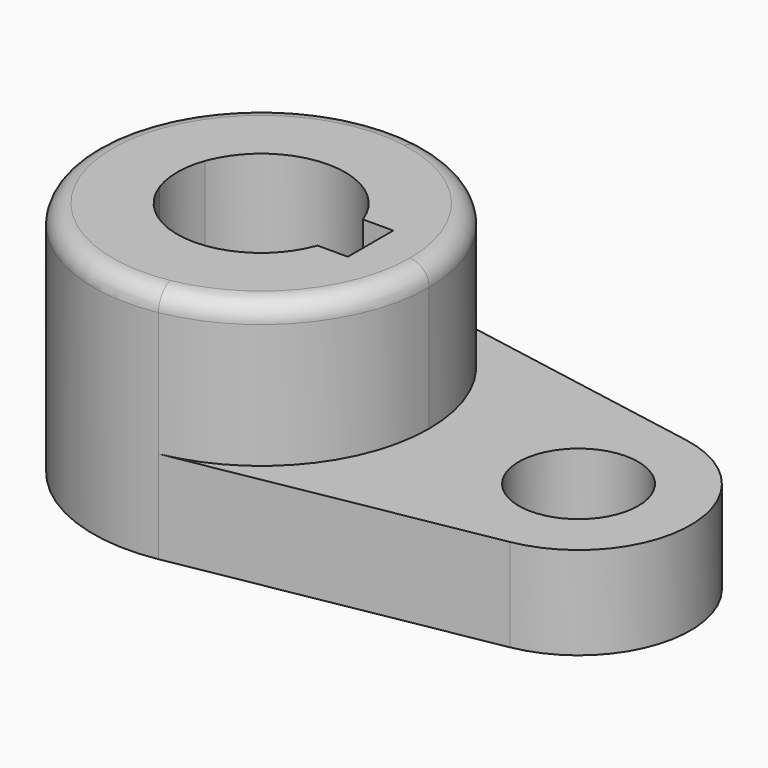
from build123d import *

# Parameters (mm, degrees)
F1_DEPTH = 40.2336
F0_R     = 10.16
F2_DEPTH = 15.7734
F3_R     = 3.302


with BuildPart() as f1:
    # F0 (on Top) → F1 (new body)
    with BuildSketch(Plane.XY):
        with BuildLine():
            ThreePointArc((5.042647, -28.126541), (21.916025, -18.336262), (28.575, 0))
            ThreePointArc((28.575, 0), (21.916025, 18.336262), (5.042647, 28.126541))
            ThreePointArc((5.042647, 28.126541), (-28.575, 0), (5.042647, -28.126541))
        make_face()
        with BuildLine():
            ThreePointArc((-13.447765, 4.826), (0, 14.2875), (13.447765, 4.826))
            Line((13.447765, 4.826), (18.6055, 4.826))
            Line((18.6055, 4.826), (18.6055, -4.826))
            Line((18.6055, -4.826), (13.447765, -4.826))
            ThreePointArc((13.447765, -4.826), (0, -14.2875), (-13.447765, -4.826))
            Line((-13.447765, -4.826), (-18.6055, -4.826))
            Line((-18.6055, -4.826), (-18.6055, 4.826))
            Line((-18.6055, 4.826), (-13.447765, 4.826))
        make_face(mode=Mode.SUBTRACT)
        with BuildLine():
            ThreePointArc((-13.447765, -4.826), (-14.2875, 0), (-13.447765, 4.826))
            Line((-13.447765, 4.826), (-18.6055, 4.826))
            Line((-18.6055, 4.826), (-18.6055, -4.826))
            Line((-18.6055, -4.826), (-13.447765, -4.826))
        make_face()
    extrude(amount=F1_DEPTH)

    # F3
    f3_edges = [f1.edges().sort_by_distance(p)[0] for p in [
        (-5.042647, 28.126541, 40.2336),
    ]]
    fillet(f3_edges, radius=F3_R)


with BuildPart() as f2:
    # F0 (on Top) → F2 (new body)
    with BuildSketch(Plane.XY):
        with BuildLine():
            ThreePointArc((5.042647, 28.126541), (21.916025, 18.336262), (28.575, 0))
            ThreePointArc((28.575, 0), (21.916025, -18.336262), (5.042647, -28.126541))
            Line((5.042647, -28.126541), (57.336765, -18.751028))
            ThreePointArc((57.336765, -18.751028), (73.025, 0), (57.336765, 18.751028))
            Line((57.336765, 18.751028), (5.042647, 28.126541))
        make_face()
        with Locations((53.975, 0)):
            Circle(F0_R, mode=Mode.SUBTRACT)
    extrude(amount=F2_DEPTH)


solid = Compound([f1.part, f2.part])
